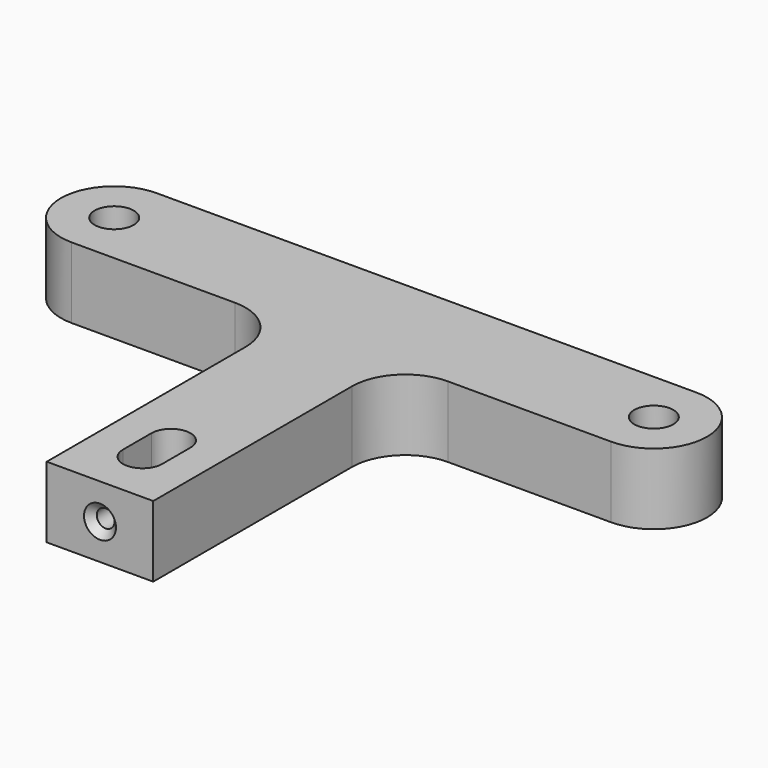
from build123d import *

# Parameters (mm, degrees)
SKETCH_R     = 2.75
PAD_DEPTH    = 10
SKETCH002_R  = 1.25
HOLE_DEPTH   = 7.501
CHAMFER_SIZE = 1


with BuildPart() as part:
    # Sketch → Pad (new body)
    with BuildSketch(Plane.XY):
        with BuildLine():
            ThreePointArc((-38.000002, 50), (-45.500002, 42.5), (-38.000002, 35))
            Line((-38.000002, 35), (-15, 35))
            ThreePointArc((-7.5, 27.5), (-9.696699, 32.803301), (-15, 35))
            Line((-7.5, 27.5), (-7.5, -7.5))
            Line((-7.5, -7.5), (7.5, -7.5))
            Line((7.5, 27.5), (7.5, -7.5))
            ThreePointArc((15, 35), (9.696699, 32.803301), (7.5, 27.5))
            Line((15, 35), (38.000002, 35))
            ThreePointArc((38.000002, 35), (45.499998, 42.500002), (37.999998, 50))
            Line((-38.000002, 50), (37.999998, 50))
        make_face()
        with Locations((-38.000002, 42.5)):
            Circle(SKETCH_R, mode=Mode.SUBTRACT)
        with Locations((37.999998, 42.5)):
            Circle(SKETCH_R, mode=Mode.SUBTRACT)
        with BuildLine():
            ThreePointArc((-2.75, 0), (0, -2.75), (2.75, 0))
            Line((2.75, 0), (2.75, 5))
            ThreePointArc((2.75, 5), (0, 7.75), (-2.75, 5))
            Line((-2.75, 0), (-2.75, 5))
        make_face(mode=Mode.SUBTRACT)
    extrude(amount=-PAD_DEPTH)

    # Sketch002 → Hole (cut, through all)
    with BuildSketch(Plane.XZ):
        with Locations((0, -5)):
            Circle(SKETCH002_R)
    extrude(amount=HOLE_DEPTH, mode=Mode.SUBTRACT)

    # Chamfer
    chamfer_edges = [part.edges().sort_by_distance(p)[0] for p in [
        (-1.25, -7.5, -5),
    ]]
    chamfer(chamfer_edges, length=CHAMFER_SIZE)


solid = part.part
